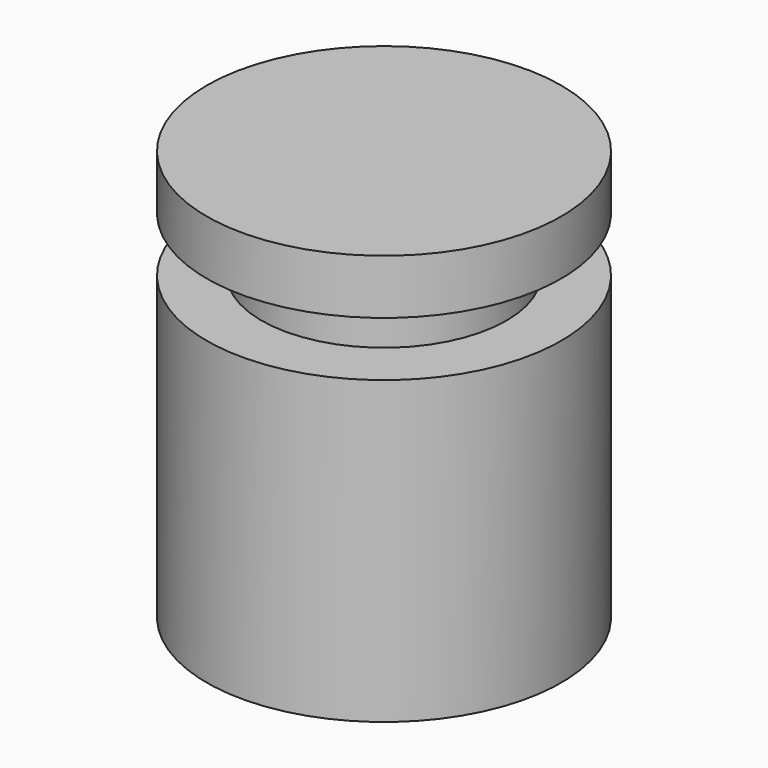
from build123d import *

# Parameters (mm, degrees)
F3_D     = 50
F3_DEPTH = 50
F3_TIP   = 15.0215154757


with BuildPart() as f1:
    # F0 (on Front) → F1 (revolve)
    with BuildSketch(Plane.XZ):
        Polygon((-64.8, 0), (0, 0), (0, 150), (-64.8, 150), (-64.8, 130), (-44.8, 130), (-44.8, 110), (-64.8, 110), align=None)
    revolve(axis=Axis((0, 0, 75), (0, 0, -1)))

    # F3
    with Locations(Plane(origin=(0, 0, 0), x_dir=(1, 0, 0), z_dir=(0, 0, -1))):
        with Locations((0, 0)):
            Hole(F3_D / 2, depth=F3_DEPTH)
            with Locations((0, 0, -(F3_DEPTH + F3_TIP / 2))):  # 118° drill point
                Cone(0, F3_D / 2, F3_TIP, mode=Mode.SUBTRACT)


solid = f1.part
